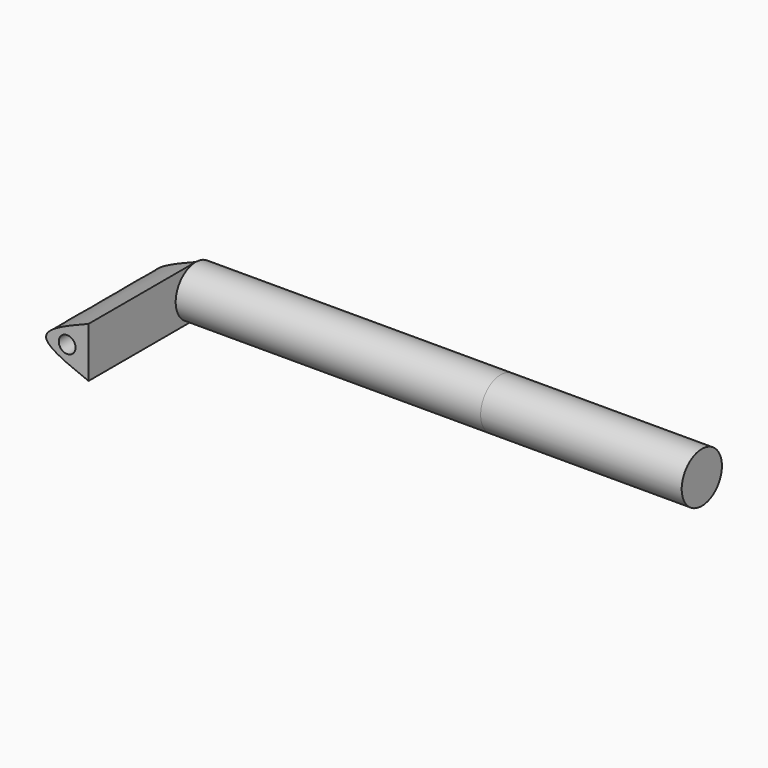
from build123d import *

# Parameters (mm, degrees)
F0_R     = 9.525
F1_DEPTH = 57.785
F2_R     = 3.175
F3_DEPTH = 50.8
F4_R     = 9.525
F5_DEPTH = 76.2


with BuildPart() as f1:
    # F0 (on Right) → F1 (new body, symmetric)
    with BuildSketch(Plane.YZ):
        Circle(F0_R)
    extrude(amount=F1_DEPTH, both=True)

    # F2 (on Front) → F3 (join)
    with BuildSketch(Plane.XZ):
        with BuildLine():
            Line((-57.785, -9.525), (-57.785, 0))
            Line((-57.785, 0), (-57.785, 9.525))
            add(Edge.make_bspline(
                [(-57.785, -9.525), (-65.827919, -6.35), (-81.913757, 0), (-65.827919, 6.35), (-57.785, 9.525)],
                knots=[0, 0, 0, 0, 18.694379, 37.388758, 37.388758, 37.388758, 37.388758], degree=3))
        make_face()
        with Locations((-65.888949, 0)):
            Circle(F2_R, mode=Mode.SUBTRACT)
    extrude(amount=F3_DEPTH)

    # F4 (on face) → F5 (join)
    with BuildSketch(Plane.YZ.offset(57.785)):
        Circle(F4_R)
    extrude(amount=F5_DEPTH)


solid = f1.part
